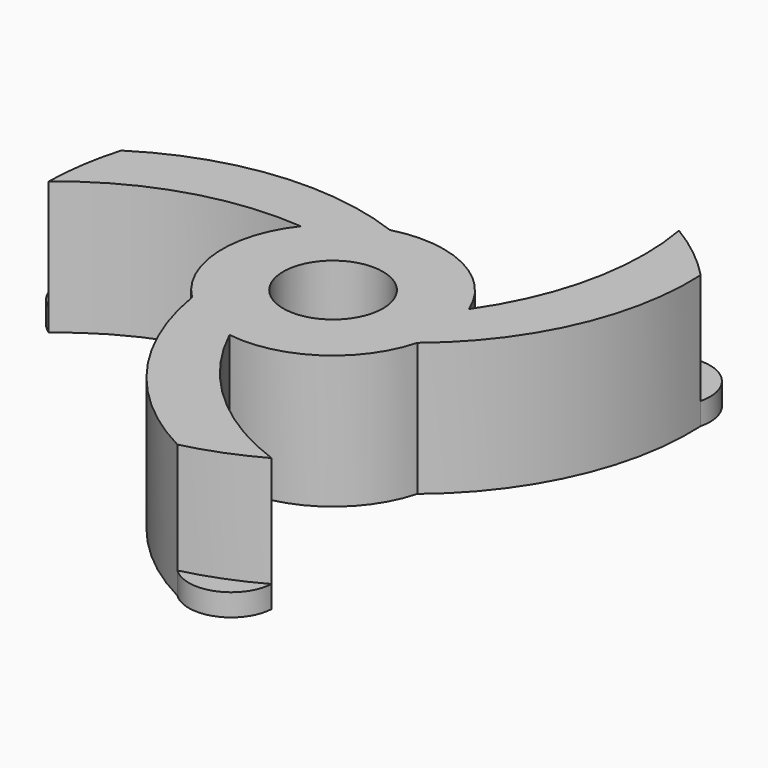
from build123d import *

# Parameters (mm, degrees)
F0_R     = 4.5
F1_DEPTH = 12
F2_DEPTH = 2


with BuildPart() as f1:
    # F0 (on Top) → F1 (new body)
    with BuildSketch(Plane.XY):
        with BuildLine():
            ThreePointArc((-7.85878, 6.183815), (-5.508567, 8.345998), (-2.59656, 9.657012))
            ThreePointArc((-2.59656, 9.657012), (-14.056504, 11.131503), (-24.955515, 7.29536))
            ThreePointArc((-24.955515, 7.29536), (-25.706653, 3.894607), (-25.996543, 0.423975))
            ThreePointArc((-25.996543, 0.423975), (-17.497151, 5.097221), (-7.85878, 6.183815))
        make_face()
        with BuildLine():
            ThreePointArc((9.284731, 3.713996), (9.819555, 1.891122), (10, 0))
            ThreePointArc((10, 0), (9.915013, -1.300966), (9.661498, -2.579819))
            ThreePointArc((9.661498, -2.579819), (16.668417, 6.607538), (18.795724, 17.96443))
            ThreePointArc((18.795724, 17.96443), (16.226156, 20.315311), (13.365445, 22.301679))
            ThreePointArc((13.365445, 22.301679), (13.162898, 12.604367), (9.284731, 3.713996))
        make_face()
        with BuildLine():
            ThreePointArc((9.661498, -2.579819), (9.915013, -1.300966), (10, 0))
            ThreePointArc((10, 0), (9.819555, 1.891122), (9.284731, 3.713996))
            ThreePointArc((9.284731, 3.713996), (4.473563, 8.943558), (-2.59656, 9.657012))
            ThreePointArc((-2.59656, 9.657012), (-5.508567, 8.345998), (-7.85878, 6.183815))
            ThreePointArc((-7.85878, 6.183815), (-9.98213, -0.59756), (-7.064937, -7.077193))
            ThreePointArc((-7.064937, -7.077193), (-4.473563, -8.943558), (-1.425951, -9.897811))
            ThreePointArc((-1.425951, -9.897811), (5.508567, -8.345998), (9.661498, -2.579819))
        make_face()
        Circle(F0_R, mode=Mode.SUBTRACT)
        with BuildLine():
            ThreePointArc((12.631098, -22.725654), (4.334253, -17.701588), (-1.425951, -9.897811))
            ThreePointArc((-1.425951, -9.897811), (-4.473563, -8.943558), (-7.064937, -7.077193))
            ThreePointArc((-7.064937, -7.077193), (-2.611913, -17.739041), (6.159791, -25.25979))
            ThreePointArc((6.159791, -25.25979), (9.480498, -24.209919), (12.631098, -22.725654))
        make_face()
    extrude(amount=F1_DEPTH)

    # F0 (on Top) → F2 (join)
    with BuildSketch(Plane.XY):
        with BuildLine():
            ThreePointArc((-25.996543, 0.423975), (-25.706653, 3.894607), (-24.955515, 7.29536))
            ThreePointArc((-24.955515, 7.29536), (-27.674447, 4.192732), (-25.996543, 0.423975))
        make_face()
        with BuildLine():
            ThreePointArc((6.159791, -25.25979), (10.206211, -26.06314), (12.631098, -22.725654))
            ThreePointArc((12.631098, -22.725654), (9.480498, -24.209919), (6.159791, -25.25979))
        make_face()
        with BuildLine():
            ThreePointArc((18.795724, 17.96443), (17.468236, 21.870408), (13.365445, 22.301679))
            ThreePointArc((13.365445, 22.301679), (16.226156, 20.315311), (18.795724, 17.96443))
        make_face()
    extrude(amount=F2_DEPTH)


solid = f1.part
